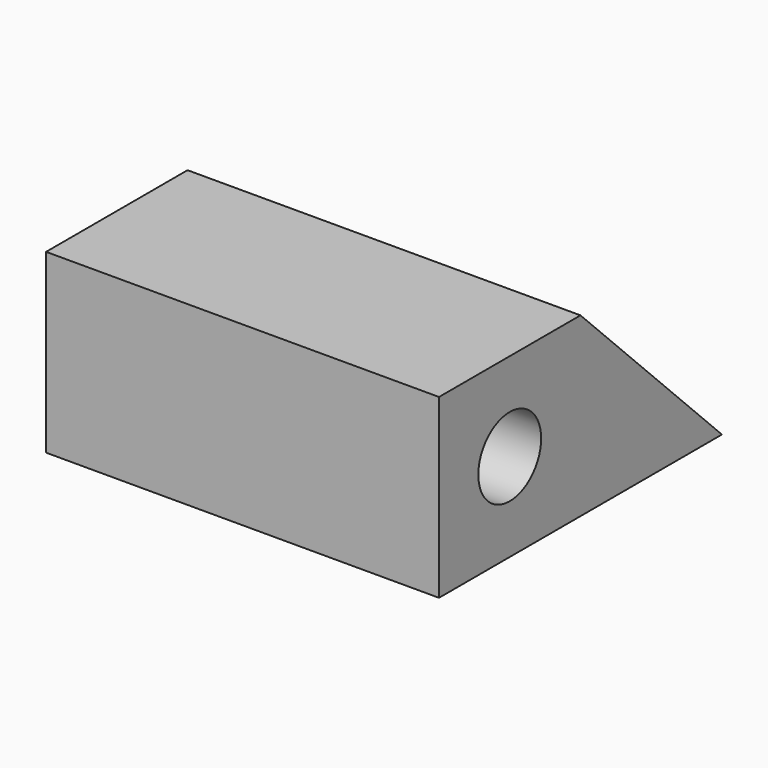
from build123d import *

# Parameters (mm, degrees)
F0_W     = 4.5
F0_H     = 4.5
F0_R     = 1.9
F0_R_2   = 1
F2_DEPTH = 10


with BuildPart() as f2:
    # F0 (on Right) → F2 (new body)
    with BuildSketch(Plane.YZ):
        Polygon((4.5, 4.5), (4.5, 0), (9, 0), align=None)
        with Locations((2.25, 2.25)):
            Rectangle(F0_W, F0_H)
        with Locations((2.25, 2.25)):
            Circle(F0_R, mode=Mode.SUBTRACT)
        with Locations((2.25, 2.25)):
            Circle(F0_R)
        with Locations((2.25, 2.25)):
            Circle(F0_R_2, mode=Mode.SUBTRACT)
    extrude(amount=F2_DEPTH)


solid = f2.part
